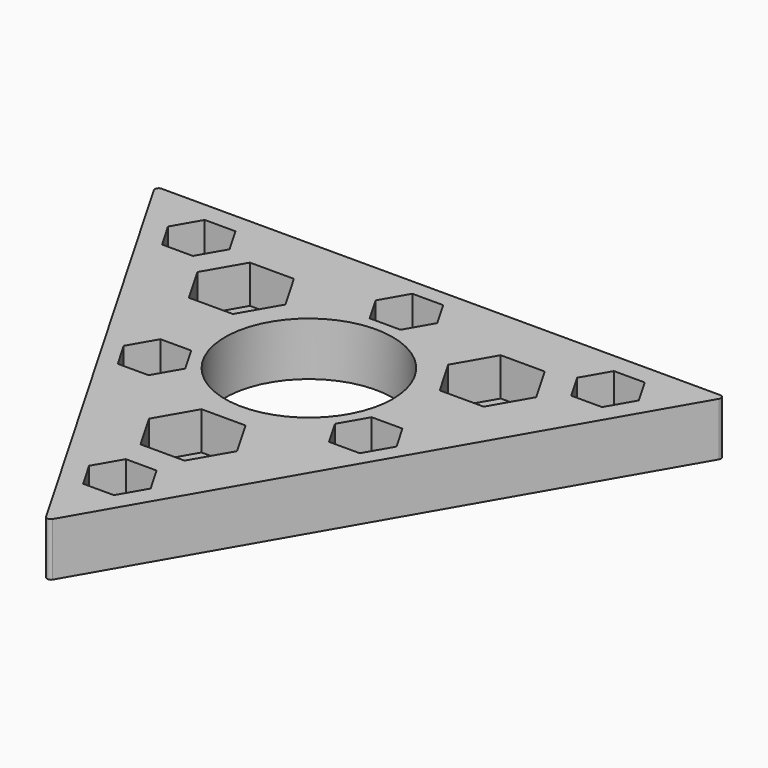
from build123d import *

# Parameters (mm, degrees)
F0_R     = 11
F1_DEPTH = 7
F2_R     = 0.5
F0_R_2   = 2.5
F0_R_3   = 3.5
F3_DEPTH = 2


with BuildPart() as f1:
    # F0 (on Top) → F1 (new body)
    with BuildSketch(Plane.XY):
        Polygon((0, -43.30127), (37.5, 21.650635), (-37.5, 21.650635), align=None)
        Polygon((4.041452, -31), (2.020726, -34.5), (-2.020726, -34.5), (-4.041452, -31), (-2.020726, -27.5), (2.020726, -27.5), align=None, mode=Mode.SUBTRACT)
        Polygon((2.886751, -14), (5.773503, -19), (2.886751, -24), (-2.886751, -24), (-5.773503, -19), (-2.886751, -14), align=None, mode=Mode.SUBTRACT)
        Polygon((-9.814955, -8), (-11.835681, -11.5), (-15.877132, -11.5), (-17.897858, -8), (-15.877132, -4.5), (-11.835681, -4.5), align=None, mode=Mode.SUBTRACT)
        Polygon((-22.805336, 15.5), (-24.826062, 12), (-28.867513, 12), (-30.888239, 15.5), (-28.867513, 19), (-24.826062, 19), align=None, mode=Mode.SUBTRACT)
        Polygon((-13.567731, 4.5), (-19.341234, 4.5), (-22.227985, 9.5), (-19.341234, 14.5), (-13.567731, 14.5), (-10.68098, 9.5), align=None, mode=Mode.SUBTRACT)
        Polygon((9.814955, -8), (11.835681, -4.5), (15.877132, -4.5), (17.897858, -8), (15.877132, -11.5), (11.835681, -11.5), align=None, mode=Mode.SUBTRACT)
        Circle(F0_R, mode=Mode.SUBTRACT)
        Polygon((22.227985, 9.5), (19.341234, 4.5), (13.567731, 4.5), (10.68098, 9.5), (13.567731, 14.5), (19.341234, 14.5), align=None, mode=Mode.SUBTRACT)
        Polygon((-2.020726, 19.5), (2.020726, 19.5), (4.041452, 16), (2.020726, 12.5), (-2.020726, 12.5), (-4.041452, 16), align=None, mode=Mode.SUBTRACT)
        Polygon((30.888239, 15.5), (28.867513, 12), (24.826062, 12), (22.805336, 15.5), (24.826062, 19), (28.867513, 19), align=None, mode=Mode.SUBTRACT)
    extrude(amount=F1_DEPTH)

    # F2
    f2_edges = [f1.edges().sort_by_distance(p)[0] for p in [
        (0, -43.30127, 3.5),
        (-37.5, 21.650635, 3.5),
        (37.5, 21.650635, 3.5),
    ]]
    fillet(f2_edges, radius=F2_R)

    # F0 (on Top) → F3 (join)
    with BuildSketch(Plane.XY):
        Polygon((4.041452, 16), (2.020726, 19.5), (-2.020726, 19.5), (-4.041452, 16), (-2.020726, 12.5), (2.020726, 12.5), align=None)
        with Locations((0, 16)):
            Circle(F0_R_2, mode=Mode.SUBTRACT)
        Polygon((-22.227985, 9.5), (-19.341234, 4.5), (-13.567731, 4.5), (-10.68098, 9.5), (-13.567731, 14.5), (-19.341234, 14.5), align=None)
        with Locations((-16.454483, 9.5)):
            Circle(F0_R_3, mode=Mode.SUBTRACT)
        Polygon((-15.877132, -11.5), (-11.835681, -11.5), (-9.814955, -8), (-11.835681, -4.5), (-15.877132, -4.5), (-17.897858, -8), align=None)
        with Locations((-13.856406, -8)):
            Circle(F0_R_2, mode=Mode.SUBTRACT)
        Polygon((-28.867513, 12), (-24.826062, 12), (-22.805336, 15.5), (-24.826062, 19), (-28.867513, 19), (-30.888239, 15.5), align=None)
        with Locations((-26.846788, 15.5)):
            Circle(F0_R_2, mode=Mode.SUBTRACT)
        Polygon((2.886751, -24), (5.773503, -19), (2.886751, -14), (-2.886751, -14), (-5.773503, -19), (-2.886751, -24), align=None)
        with Locations((0, -19)):
            Circle(F0_R_3, mode=Mode.SUBTRACT)
        Polygon((-2.020726, -34.5), (2.020726, -34.5), (4.041452, -31), (2.020726, -27.5), (-2.020726, -27.5), (-4.041452, -31), align=None)
        with Locations((0, -31)):
            Circle(F0_R_2, mode=Mode.SUBTRACT)
        Polygon((15.877132, -4.5), (11.835681, -4.5), (9.814955, -8), (11.835681, -11.5), (15.877132, -11.5), (17.897858, -8), align=None)
        with Locations((13.856406, -8)):
            Circle(F0_R_2, mode=Mode.SUBTRACT)
        Polygon((13.567731, 4.5), (19.341234, 4.5), (22.227985, 9.5), (19.341234, 14.5), (13.567731, 14.5), (10.68098, 9.5), align=None)
        with Locations((16.454483, 9.5)):
            Circle(F0_R_3, mode=Mode.SUBTRACT)
        Polygon((24.826062, 12), (28.867513, 12), (30.888239, 15.5), (28.867513, 19), (24.826062, 19), (22.805336, 15.5), align=None)
        with Locations((26.846788, 15.5)):
            Circle(F0_R_2, mode=Mode.SUBTRACT)
    extrude(amount=F3_DEPTH)


solid = f1.part
